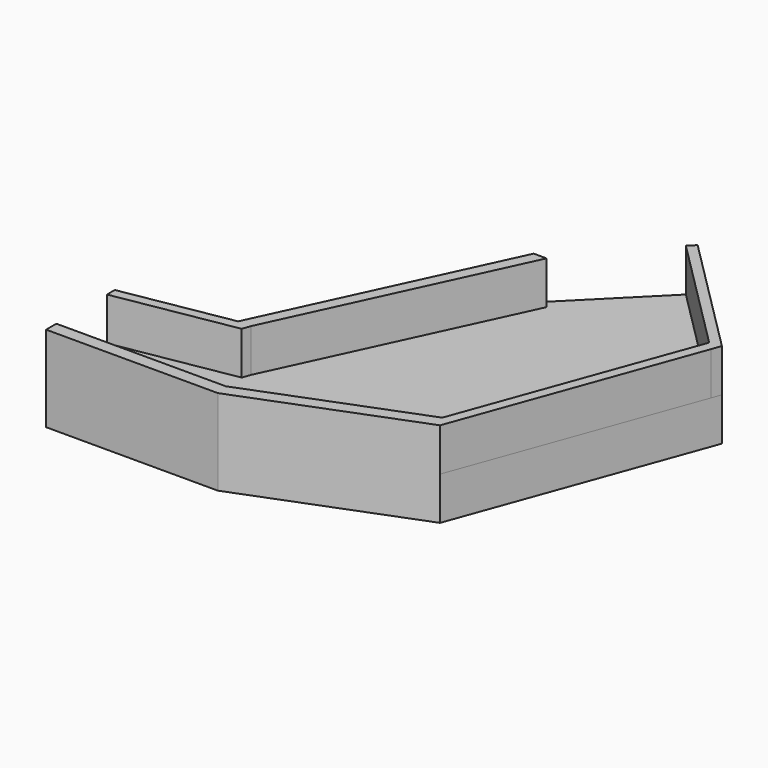
from build123d import *

# Parameters (mm, degrees)
F0_W     = 50
F0_H     = 50
F1_DEPTH = 5
F3_DEPTH = 10
F4_DEPTH = 5
F6_DEPTH = 5


with BuildPart() as f1:
    # F0 (on Top) → F1 (new body, symmetric)
    with BuildSketch(Plane.XY):
        Rectangle(F0_W, F0_H)
    extrude(amount=F1_DEPTH, both=True)

    # F2 (on face) → F3 (cut)
    with BuildSketch(Plane.XY.offset(5)):
        Polygon((0.262668, 14.382005), (10.857864, 25), (-25, 25), (-25, -15), (-12.386651, -12.820839), align=None)
        Polygon((25, -25), (25, 10.857864), (14.739396, -17.332914), (-5, -25), align=None)
        Polygon((25, 25), (10.857864, 25), (25, 10.857864), align=None)
    extrude(amount=-F3_DEPTH, mode=Mode.SUBTRACT)

    # F1_face (on face) → F4 (cut)
    with BuildSketch(Plane.XY.offset(5)):
        Polygon((-25, -15), (-25, -25), (-5, -25), (14.739396, -17.332914), (25, 10.857864), (10.857864, 25), (0.262668, 14.382005), (-12.386651, -12.820839), align=None)
    extrude(amount=-F4_DEPTH, mode=Mode.SUBTRACT)

    # F5 (on face) → F6 (join)
    with BuildSketch(Plane.XY):
        Polygon((-11.219984, -13.763648), (-10.886651, -12.820839), (-12.386651, -12.820839), align=None)
        Polygon((1.762668, 14.382005), (0.262668, 14.382005), (-12.386651, -12.820839), (-10.886651, -12.820839), align=None)
        Polygon((-11.219984, -13.763648), (-12.386651, -12.820839), (-25, -15), (-25, -16.14437), align=None)
        Polygon((-5, -25), (-5.283205, -23.5), (-25, -23.5), (-25, -25), align=None)
        Polygon((14.739396, -17.332914), (13.951547, -16.028926), (-5.283205, -23.5), (-5, -25), align=None)
        Polygon((24.593647, 9.741419), (23.668068, 10.666997), (13.951547, -16.028926), (14.739396, -17.332914), align=None)
        Polygon((10.857864, 25), (10.097283, 24.237782), (10.857864, 23.477201), (23.668068, 10.666997), (24.593647, 9.741419), (25, 10.857864), align=None)
    extrude(amount=F6_DEPTH)


solid = f1.part
